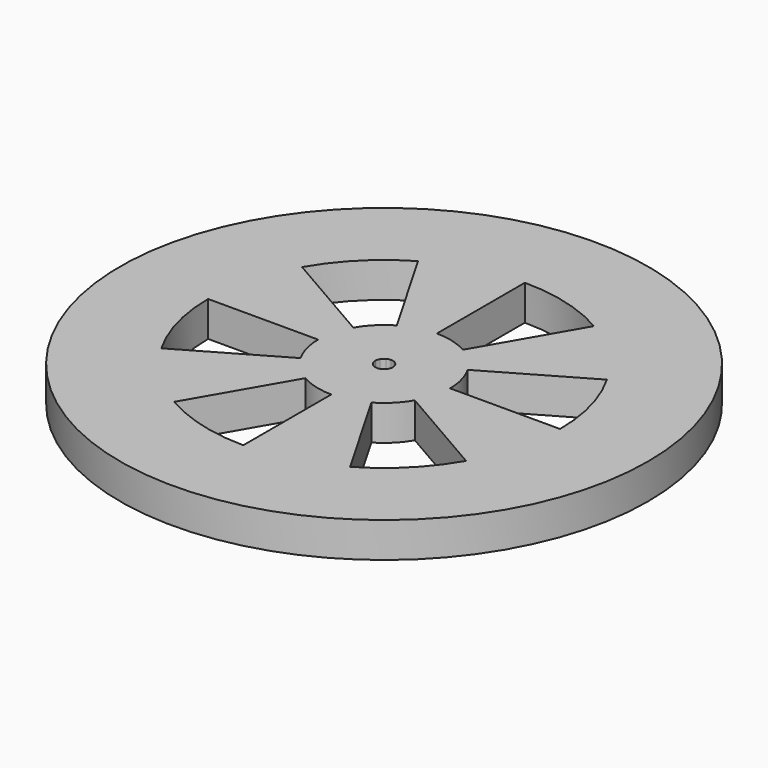
from build123d import *

# Parameters (mm, degrees)
F0_R     = 38.1
F1_DEPTH = 5.08


with BuildPart() as f1:
    # F0 (on Top) → F1 (new body)
    with BuildSketch(Plane.XY):
        Circle(F0_R)
        with BuildLine():
            ThreePointArc((21.9970452561, 12.7), (24.5345159877, 6.5740037456), (25.4, 0))
            ThreePointArc((25.4, 0), (24.5345159877, -6.5740037456), (21.9970452561, -12.7))
            ThreePointArc((21.9970452561, -12.7), (17.9605122421, -17.9605122421), (12.7, -21.9970452561))
            ThreePointArc((12.7, -21.9970452561), (6.5740037456, -24.5345159877), (0, -25.4))
            ThreePointArc((0, -25.4), (-6.5740037456, -24.5345159877), (-12.7, -21.9970452561))
            ThreePointArc((-12.7, -21.9970452561), (-17.9605122421, -17.9605122421), (-21.9970452561, -12.7))
            ThreePointArc((-21.9970452561, -12.7), (-24.5345159877, -6.5740037456), (-25.4, 0))
            ThreePointArc((-25.4, 0), (-24.5345159877, 6.5740037456), (-21.9970452561, 12.7))
            ThreePointArc((-21.9970452561, 12.7), (-17.9605122421, 17.9605122421), (-12.7, 21.9970452561))
            ThreePointArc((-12.7, 21.9970452561), (-6.5740037456, 24.5345159877), (0, 25.4))
            ThreePointArc((0, 25.4), (6.5740037456, 24.5345159877), (12.7, 21.9970452561))
            ThreePointArc((12.7, 21.9970452561), (17.9605122421, 17.9605122421), (21.9970452561, 12.7))
        make_face(mode=Mode.SUBTRACT)
        with BuildLine():
            Line((8.248891971, 4.7625), (21.9970452561, 12.7))
            ThreePointArc((21.9970452561, 12.7), (17.9605122421, 17.9605122421), (12.7, 21.9970452561))
            Line((12.7, 21.9970452561), (4.7625, 8.248891971))
            ThreePointArc((4.7625, 8.248891971), (6.7351920908, 6.7351920908), (8.248891971, 4.7625))
        make_face()
        with BuildLine():
            Line((-8.248891971, 4.7625), (-21.9970452561, 12.7))
            ThreePointArc((-21.9970452561, 12.7), (-24.5345159877, 6.5740037456), (-25.4, 0))
            Line((-25.4, 0), (-9.525, 0))
            ThreePointArc((-9.525, 0), (-9.2004434954, 2.4652514046), (-8.248891971, 4.7625))
        make_face()
        with BuildLine():
            ThreePointArc((-21.9970452561, -12.7), (-17.9605122421, -17.9605122421), (-12.7, -21.9970452561))
            Line((-12.7, -21.9970452561), (-4.7625, -8.248891971))
            ThreePointArc((-4.7625, -8.248891971), (-6.7351920908, -6.7351920908), (-8.248891971, -4.7625))
            Line((-8.248891971, -4.7625), (-21.9970452561, -12.7))
        make_face()
        with BuildLine():
            Line((0, 9.525), (0, 25.4))
            ThreePointArc((0, 25.4), (-6.5740037456, 24.5345159877), (-12.7, 21.9970452561))
            Line((-12.7, 21.9970452561), (-4.7625, 8.248891971))
            ThreePointArc((-4.7625, 8.248891971), (-2.4652514046, 9.2004434954), (0, 9.525))
        make_face()
        with BuildLine():
            ThreePointArc((0, -25.4), (6.5740037456, -24.5345159877), (12.7, -21.9970452561))
            Line((12.7, -21.9970452561), (4.7625, -8.248891971))
            ThreePointArc((4.7625, -8.248891971), (2.4652514046, -9.2004434954), (0, -9.525))
            Line((0, -9.525), (0, -25.4))
        make_face()
        with BuildLine():
            ThreePointArc((21.9970452561, -12.7), (24.5345159877, -6.5740037456), (25.4, 0))
            Line((25.4, 0), (9.525, 0))
            ThreePointArc((9.525, 0), (9.2004434954, -2.4652514046), (8.248891971, -4.7625))
            Line((8.248891971, -4.7625), (21.9970452561, -12.7))
        make_face()
        with BuildLine():
            ThreePointArc((-0.635, -1.0998522628), (-0.8980256121, -0.8980256121), (-1.0998522628, -0.635))
            Line((-1.0998522628, -0.635), (-8.248891971, -4.7625))
            ThreePointArc((-8.248891971, -4.7625), (-6.7351920908, -6.7351920908), (-4.7625, -8.248891971))
            Line((-4.7625, -8.248891971), (-0.635, -1.0998522628))
        make_face()
        with BuildLine():
            ThreePointArc((-4.7625, -8.248891971), (-2.4652514046, -9.2004434954), (0, -9.525))
            Line((0, -9.525), (0, -1.27))
            ThreePointArc((0, -1.27), (-0.3287001873, -1.2267257994), (-0.635, -1.0998522628))
            Line((-0.635, -1.0998522628), (-4.7625, -8.248891971))
        make_face()
        with BuildLine():
            ThreePointArc((0, -9.525), (2.4652514046, -9.2004434954), (4.7625, -8.248891971))
            Line((4.7625, -8.248891971), (0.635, -1.0998522628))
            ThreePointArc((0.635, -1.0998522628), (0.3287001873, -1.2267257994), (0, -1.27))
            Line((0, -1.27), (0, -9.525))
        make_face()
        with BuildLine():
            ThreePointArc((4.7625, -8.248891971), (6.7351920908, -6.7351920908), (8.248891971, -4.7625))
            Line((8.248891971, -4.7625), (1.0998522628, -0.635))
            ThreePointArc((1.0998522628, -0.635), (0.8980256121, -0.8980256121), (0.635, -1.0998522628))
            Line((0.635, -1.0998522628), (4.7625, -8.248891971))
        make_face()
        with BuildLine():
            ThreePointArc((8.248891971, -4.7625), (9.2004434954, -2.4652514046), (9.525, 0))
            Line((9.525, 0), (1.27, 0))
            ThreePointArc((1.27, 0), (1.2267257994, -0.3287001873), (1.0998522628, -0.635))
            Line((1.0998522628, -0.635), (8.248891971, -4.7625))
        make_face()
        with BuildLine():
            Line((1.27, 0), (9.525, 0))
            ThreePointArc((9.525, 0), (9.2004434954, 2.4652514046), (8.248891971, 4.7625))
            Line((8.248891971, 4.7625), (1.0998522628, 0.635))
            ThreePointArc((1.0998522628, 0.635), (1.2267257994, 0.3287001873), (1.27, 0))
        make_face()
        with BuildLine():
            Line((1.0998522628, 0.635), (8.248891971, 4.7625))
            ThreePointArc((8.248891971, 4.7625), (6.7351920908, 6.7351920908), (4.7625, 8.248891971))
            Line((4.7625, 8.248891971), (0.635, 1.0998522628))
            ThreePointArc((0.635, 1.0998522628), (0.8980256121, 0.8980256121), (1.0998522628, 0.635))
        make_face()
        with BuildLine():
            Line((0.635, 1.0998522628), (4.7625, 8.248891971))
            ThreePointArc((4.7625, 8.248891971), (2.4652514046, 9.2004434954), (0, 9.525))
            Line((0, 9.525), (0, 1.27))
            ThreePointArc((0, 1.27), (0.3287001873, 1.2267257994), (0.635, 1.0998522628))
        make_face()
        with BuildLine():
            Line((0, 1.27), (0, 9.525))
            ThreePointArc((0, 9.525), (-2.4652514046, 9.2004434954), (-4.7625, 8.248891971))
            Line((-4.7625, 8.248891971), (-0.635, 1.0998522628))
            ThreePointArc((-0.635, 1.0998522628), (-0.3287001873, 1.2267257994), (0, 1.27))
        make_face()
        with BuildLine():
            ThreePointArc((-1.0998522628, 0.635), (-0.8980256121, 0.8980256121), (-0.635, 1.0998522628))
            Line((-0.635, 1.0998522628), (-4.7625, 8.248891971))
            ThreePointArc((-4.7625, 8.248891971), (-6.7351920908, 6.7351920908), (-8.248891971, 4.7625))
            Line((-8.248891971, 4.7625), (-1.0998522628, 0.635))
        make_face()
        with BuildLine():
            ThreePointArc((-1.27, 0), (-1.2267257994, 0.3287001873), (-1.0998522628, 0.635))
            Line((-1.0998522628, 0.635), (-8.248891971, 4.7625))
            ThreePointArc((-8.248891971, 4.7625), (-9.2004434954, 2.4652514046), (-9.525, 0))
            Line((-9.525, 0), (-1.27, 0))
        make_face()
        with BuildLine():
            ThreePointArc((-1.0998522628, -0.635), (-1.2267257994, -0.3287001873), (-1.27, 0))
            Line((-1.27, 0), (-9.525, 0))
            ThreePointArc((-9.525, 0), (-9.2004434954, -2.4652514046), (-8.248891971, -4.7625))
            Line((-8.248891971, -4.7625), (-1.0998522628, -0.635))
        make_face()
    extrude(amount=F1_DEPTH)


solid = f1.part
